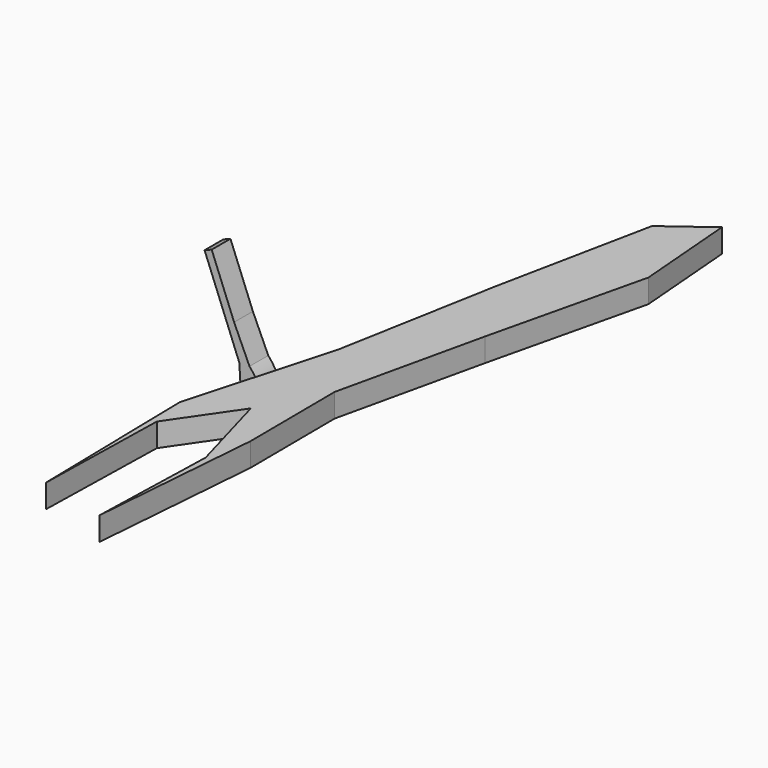
from build123d import *

# Parameters (mm, degrees)
F1_DEPTH = 25.4
F3_DEPTH = 25.4


with BuildPart() as f1:
    # F0 (on Top) → F1 (new body)
    with BuildSketch(Plane.XY):
        Polygon((123.008274, -239.870414), (122.19511, -125.397533), (158.032253, 33.398684), (198.471949, 203.771606), (189.496323, 314.452678), (141.972825, 279.251069), (107.619673, 110.402279), (76.187298, -62.722787), (31.705081, -221.639857), (35.402518, -407.225162), (38.692296, -261.558563), (85.690096, -193.087429), (112.153806, -287.327021), (108.092964, -425.836921), align=None)
    extrude(amount=F1_DEPTH)


with BuildPart() as f3:
    # F2 (on Front) → F3 (new body)
    with BuildSketch(Plane.XZ):
        with BuildLine():
            Line((-66.559978, -10.202439), (-90.826385, 51.05846))
            Line((-90.826385, 51.05846), (-98.530347, 48.006799))
            Line((-98.530347, 48.006799), (-60.959959, -46.840195))
            Line((-60.959959, -46.840195), (-55.703185, -130.150378))
            ThreePointArc((-55.703185, -130.150378), (-34.916733, -89.739269), (-49.910188, -46.840195))
            Line((-49.910188, -46.840195), (-66.559978, -10.202439))
        make_face()
    extrude(amount=F3_DEPTH)


solid = Compound([f1.part, f3.part])
